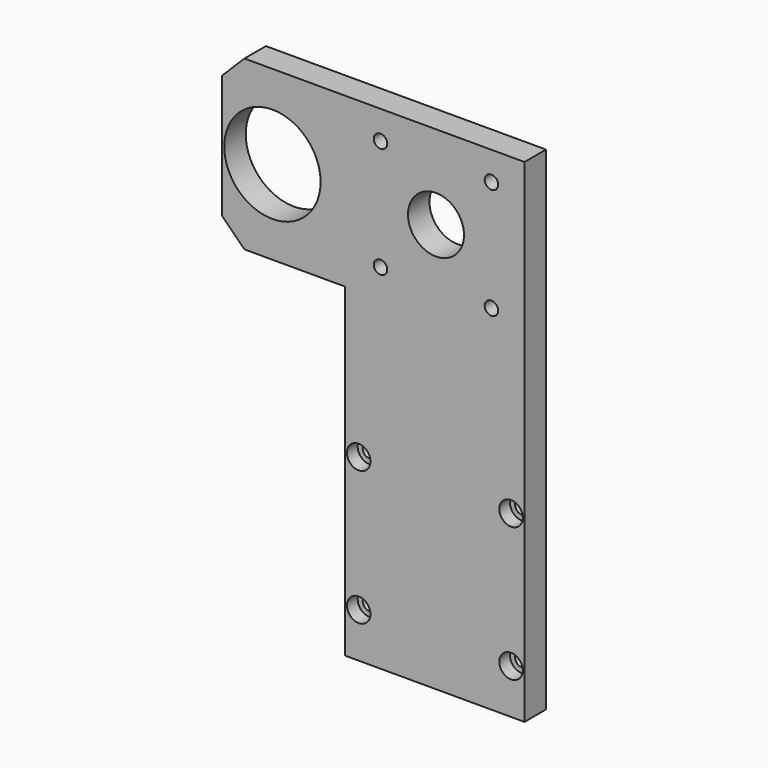
from build123d import *

# Parameters (mm, degrees)
F0_R     = 3
F0_R_2   = 21.5
F0_R_3   = 12.5
F1_DEPTH = 12
F2_SIZE  = 10
F3_R     = 5.25
F3_R_2   = 3
F4_DEPTH = 6


with BuildPart() as f1:
    # F0 (on Front) → F1 (new body)
    with BuildSketch(Plane.XZ):
        Polygon((0, 145), (0, 0), (80, 0), (80, 220), (-55, 220), (-55, 145), align=None)
        with Locations((6, 20)):
            Circle(F0_R, mode=Mode.SUBTRACT)
        with Locations((6, 80)):
            Circle(F0_R, mode=Mode.SUBTRACT)
        with Locations((74, 20)):
            Circle(F0_R, mode=Mode.SUBTRACT)
        with Locations((74, 80)):
            Circle(F0_R, mode=Mode.SUBTRACT)
        with Locations((-32.5, 182.5)):
            Circle(F0_R_2, mode=Mode.SUBTRACT)
        with Locations((15.751263, 157.751263)):
            Circle(F0_R, mode=Mode.SUBTRACT)
        with Locations((65.248737, 157.751263)):
            Circle(F0_R, mode=Mode.SUBTRACT)
        with Locations((40.5, 182.5)):
            Circle(F0_R_3, mode=Mode.SUBTRACT)
        with Locations((15.751263, 207.248737)):
            Circle(F0_R, mode=Mode.SUBTRACT)
        with Locations((65.248737, 207.248737)):
            Circle(F0_R, mode=Mode.SUBTRACT)
    extrude(amount=F1_DEPTH)

    # F2
    f2_edges = [f1.edges().sort_by_distance(p)[0] for p in [
        (-55, -6, 220),
        (-55, -6, 145),
    ]]
    chamfer(f2_edges, length=F2_SIZE)

    # F3 (on face) → F4 (cut)
    with BuildSketch(Plane.XZ.offset(12)):
        with Locations((6, 80)):
            Circle(F3_R)
        with Locations((6, 80)):
            Circle(F3_R_2, mode=Mode.SUBTRACT)
        with Locations((74, 80)):
            Circle(F3_R)
        with Locations((74, 80)):
            Circle(F3_R_2, mode=Mode.SUBTRACT)
        with Locations((74, 20)):
            Circle(F3_R)
        with Locations((74, 20)):
            Circle(F3_R_2, mode=Mode.SUBTRACT)
        with Locations((6, 20)):
            Circle(F3_R)
        with Locations((6, 20)):
            Circle(F3_R_2, mode=Mode.SUBTRACT)
    extrude(amount=-F4_DEPTH, mode=Mode.SUBTRACT)


solid = f1.part
